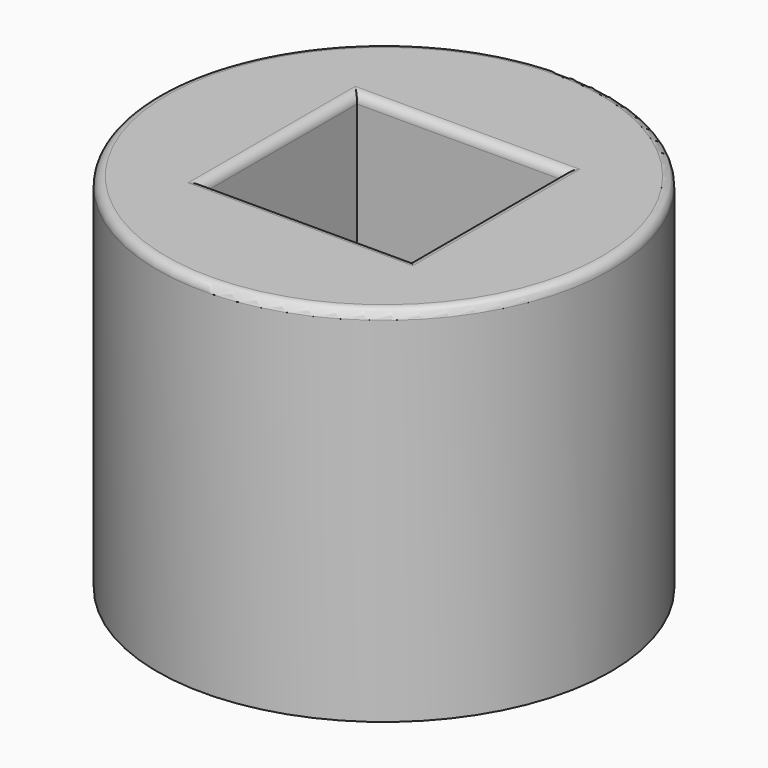
from build123d import *

# Parameters (mm, degrees)
F0_R     = 63.5
F1_DEPTH = 101.6
F2_W     = 57.8431412578
F2_H     = 53.4668527544
F3_DEPTH = 190.5
F4_R     = 2.54
F5_R     = 7.6327
F6_DEPTH = 57.912


with BuildPart() as f1:
    # F0 (on Top) → F1 (new body)
    with BuildSketch(Plane.XY):
        Circle(F0_R)
    extrude(amount=F1_DEPTH)

    # F2 (on face) → F3 (cut)
    with BuildSketch(Plane.XY.offset(101.6)):
        Rectangle(F2_W, F2_H)
    extrude(amount=-F3_DEPTH, mode=Mode.SUBTRACT)

    # F4
    f4_edges = [f1.edges().sort_by_distance(p)[0] for p in [
        (-63.5, 0, 101.6),
        (0, -26.733426, 101.6),
        (28.921571, 0, 101.6),
        (0, 26.733426, 101.6),
        (-28.921571, 0, 101.6),
    ]]
    fillet(f4_edges, radius=F4_R)

    # F5 (on face) → F6 (cut)
    with BuildSketch(Plane.YZ.offset(-28.9215706289)):
        with Locations((0, 52.9904067516)):
            Circle(F5_R)
    extrude(amount=-F6_DEPTH, mode=Mode.SUBTRACT)


solid = f1.part
